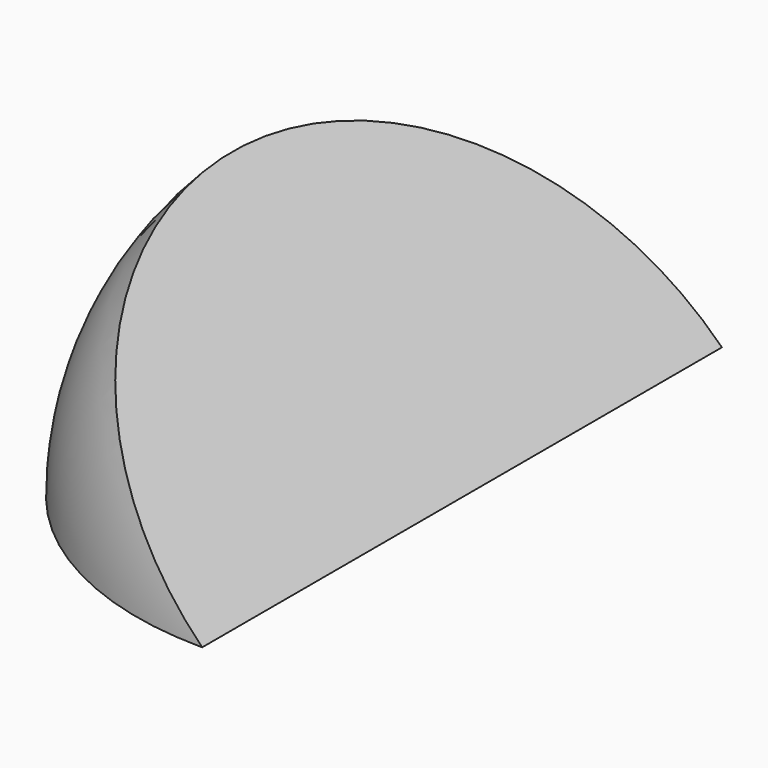
from build123d import *

# Parameters (mm, degrees)
F1_ANGLE = -45


with BuildPart() as f1:
    # F0 (on Top) → F1 (revolve)
    with BuildSketch(Plane.XY):
        with BuildLine():
            Line((0, -42.596727), (0, 42.596727))
            ThreePointArc((0, 42.596727), (-42.596727, 0), (0, -42.596727))
        make_face()
    revolve(axis=Axis((0, 0, 0), (0, -1, 0)), revolution_arc=F1_ANGLE)


solid = f1.part
